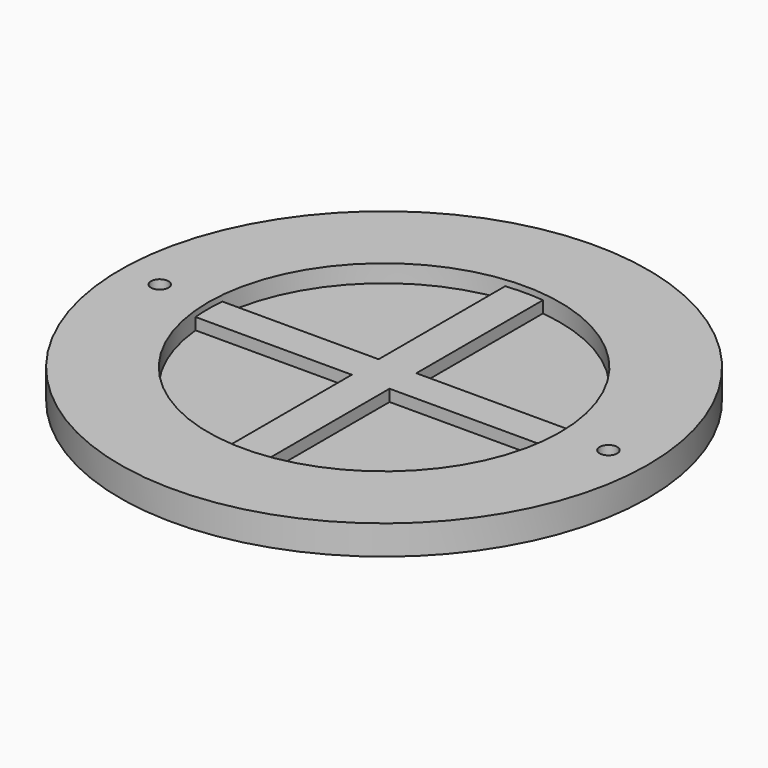
from build123d import *

# Parameters (mm, degrees)
F0_R     = 45
F0_R_2   = 1.5
F1_DEPTH = 5
F2_R     = 30
F3_DEPTH = 3
F5_DEPTH = 2


with BuildPart() as f1:
    # F0 (on Top) → F1 (new body)
    with BuildSketch(Plane.XY):
        Circle(F0_R)
        with Locations((-38.25, 0)):
            Circle(F0_R_2, mode=Mode.SUBTRACT)
        with Locations((38.25, 0)):
            Circle(F0_R_2, mode=Mode.SUBTRACT)
    extrude(amount=F1_DEPTH)

    # F2 (on face) → F3 (cut)
    with BuildSketch(Plane.XY.offset(5)):
        Circle(F2_R)
    extrude(amount=-F3_DEPTH, mode=Mode.SUBTRACT)

    # F4 (on face) → F5 (join)
    with BuildSketch(Plane.XY.offset(2)):
        with BuildLine():
            Line((-3.2170990016, 29.8270057836), (-3.2170990016, 2.8556571342))
            Line((-3.2170990016, 2.8556571342), (-29.8637777639, 2.8556571342))
            ThreePointArc((-29.8637777639, 2.8556571342), (-30, 0), (-29.8637777639, -2.8556571342))
            Line((-29.8637777639, -2.8556571342), (-3.2170990016, -2.8556571342))
            Line((-3.2170990016, -2.8556571342), (-3.2170990016, -29.8270057836))
            ThreePointArc((-3.2170990016, -29.8270057836), (0, -30), (3.2170990016, -29.8270057836))
            Line((3.2170990016, -29.8270057836), (3.2170990016, -2.8556571342))
            Line((3.2170990016, -2.8556571342), (29.8637777639, -2.8556571342))
            ThreePointArc((29.8637777639, -2.8556571342), (29.9659250893, -1.4294521823), (30, 0))
            ThreePointArc((30, 0), (29.9659250893, 1.4294521823), (29.8637777639, 2.8556571342))
            Line((29.8637777639, 2.8556571342), (3.2170990016, 2.8556571342))
            Line((3.2170990016, 2.8556571342), (3.2170990016, 29.8270057836))
            ThreePointArc((3.2170990016, 29.8270057836), (0, 30), (-3.2170990016, 29.8270057836))
        make_face()
    extrude(amount=F5_DEPTH)


solid = f1.part
